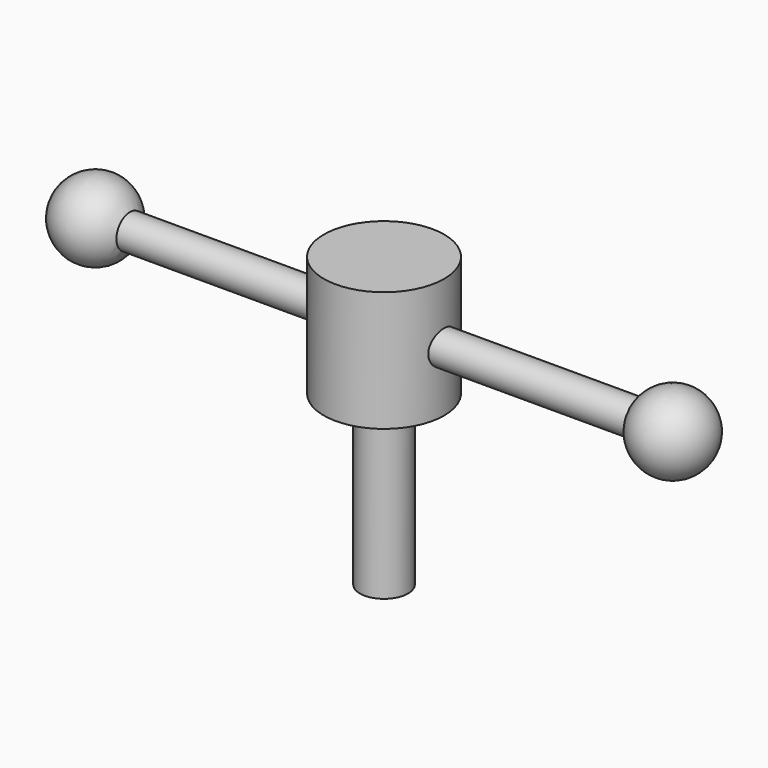
from build123d import *

# Parameters (mm, degrees)
F0_R     = 15.875
F0_R_2   = 6.35
F1_DEPTH = 31.75
F2_DEPTH = 76.2
F3_R     = 4.445
F4_DEPTH = 76.2


with BuildPart() as f1:
    # F0 (on Top) → F1 (new body)
    with BuildSketch(Plane.XY):
        Circle(F0_R)
        Circle(F0_R_2, mode=Mode.SUBTRACT)
        Circle(F0_R_2)
    extrude(amount=-F1_DEPTH)

    # F0 (on Top) → F2 (join)
    with BuildSketch(Plane.XY):
        Circle(F0_R_2)
    extrude(amount=-F2_DEPTH)

    # F3 (on Right) → F4 (join, symmetric)
    with BuildSketch(Plane.YZ):
        with Locations((0, -15.875)):
            Circle(F3_R)
    extrude(amount=F4_DEPTH, both=True)

    # F5 (on face) → F6 (revolve)
    with BuildSketch(Plane.YZ.offset(76.2)):
        with BuildLine():
            Line((-10.16, -15.875), (10.16, -15.875))
            ThreePointArc((10.16, -15.875), (0, -5.715), (-10.16, -15.875))
        make_face()
    revolve(axis=Axis((76.2, 10.16, -15.875), (0, 1, 0)))

    # F7 (on face) → F8 (revolve)
    with BuildSketch(Plane(origin=(-76.2, 0, 0), x_dir=(0, -1, 0), z_dir=(-1, 0, 0))):
        with BuildLine():
            Line((4.445, -15.875), (10.16, -15.875))
            ThreePointArc((10.16, -15.875), (0, -5.715), (-10.16, -15.875))
            Line((-10.16, -15.875), (-4.445, -15.875))
            ThreePointArc((-4.445, -15.875), (0, -11.43), (4.445, -15.875))
        make_face()
    revolve(axis=Axis((-76.2, -10.16, -15.875), (0, -1, 0)))


solid = f1.part
